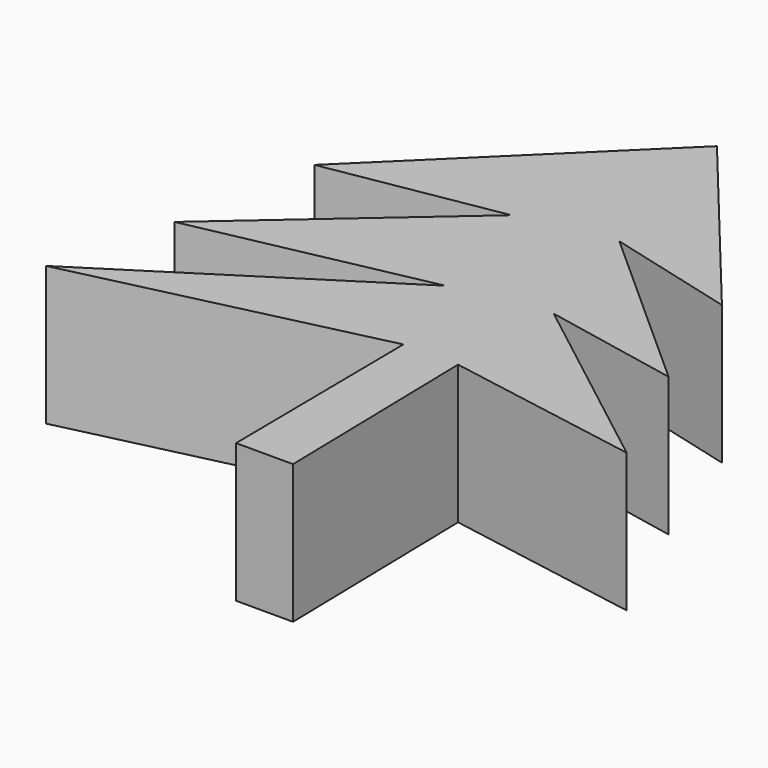
from build123d import *

# Parameters (mm, degrees)
EXTRUDE_DEPTH = 10


with BuildPart() as part:
    # path4181 → Extrude (new body)
    with BuildSketch(Plane(origin=(19.999989, -22.71163, 0), x_dir=(0, -1, 0), z_dir=(0, 0, -1))):
        with BuildLine():
            add(Edge.make_bspline(
                [(22.570525, -1.969483), (7.304641, -1.805358)],
                knots=[0, 0, 54.094838, 54.094838], degree=1))
            add(Edge.make_bspline(
                [(7.304641, -1.805358), (12.393269, 19.85894)],
                knots=[0, 0, 78.852395, 78.852395], degree=1))
            add(Edge.make_bspline(
                [(12.393269, 19.85894), (0.246224, 0.820617)],
                knots=[0, 0, 80.019804, 80.019804], degree=1))
            add(Edge.make_bspline(
                [(0.246224, 0.820617), (3.693359, 17.561211)],
                knots=[0, 0, 60.561559, 60.561559], degree=1))
            add(Edge.make_bspline(
                [(3.693359, 17.561211), (-8.781986, 3.28247)],
                knots=[0, 0, 67.184379, 67.184379], degree=1))
            add(Edge.make_bspline(
                [(-8.781986, 3.28247), (-6.648045, 15.755852)],
                knots=[0, 0, 44.839145, 44.839145], degree=1))
            add(Edge.make_bspline(
                [(-6.648045, 15.755852), (-22.570525, -0.492372)],
                knots=[0, 0, 80.607717, 80.607717], degree=1))
            add(Edge.make_bspline(
                [(-22.570525, -0.492372), (-7.632941, -12.80163)],
                knots=[0, 0, 68.58375, 68.58375], degree=1))
            add(Edge.make_bspline(
                [(-7.632941, -12.80163), (-10.09518, -3.446593)],
                knots=[0, 0, 34.276682, 34.276682], degree=1))
            add(Edge.make_bspline(
                [(-10.09518, -3.446593), (1.066971, -15.919976)],
                knots=[0, 0, 59.309806, 59.309806], degree=1))
            add(Edge.make_bspline(
                [(1.066971, -15.919976), (-0.902821, -6.072568)],
                knots=[0, 0, 35.583612, 35.583612], degree=1))
            add(Edge.make_bspline(
                [(-0.902821, -6.072568), (9.766881, -19.85894)],
                knots=[0, 0, 61.770178, 61.770178], degree=1))
            add(Edge.make_bspline(
                [(9.766881, -19.85894), (7.304641, -5.744322)],
                knots=[0, 0, 50.7677, 50.7677], degree=1))
            add(Edge.make_bspline(
                [(7.304641, -5.744322), (22.570525, -6.072568)],
                knots=[0, 0, 54.104215, 54.104215], degree=1))
            add(Edge.make_bspline(
                [(22.570525, -6.072568), (22.570525, -1.969483)],
                knots=[0, 0, 14.538494, 14.538494], degree=1))
        make_face()
    extrude(amount=EXTRUDE_DEPTH)


solid = part.part
